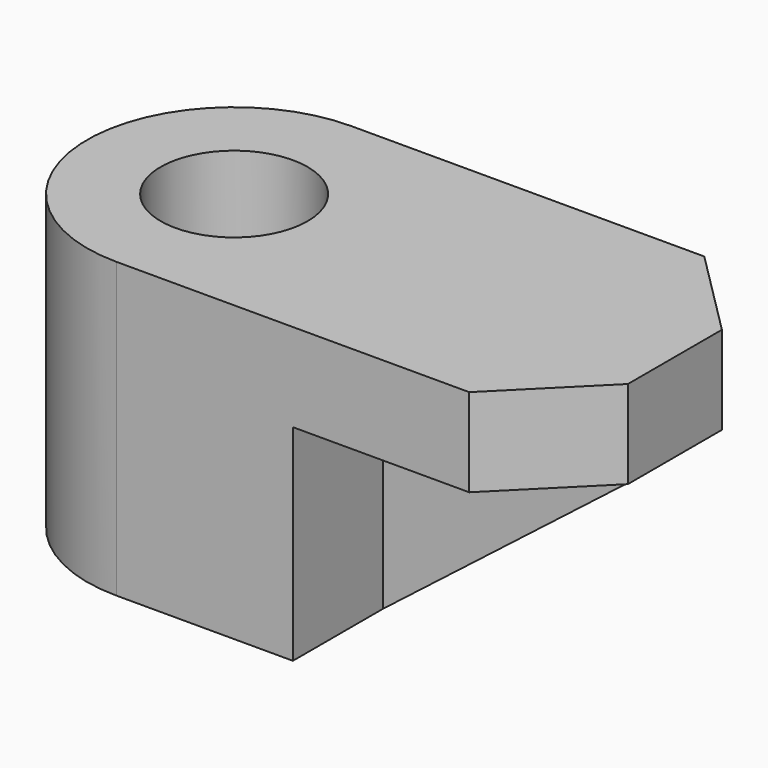
from build123d import *

# Parameters (mm, degrees)
F1_DEPTH = 30
F2_R     = 7.5
F3_DEPTH = 30
F5_DEPTH = 21
F6_W     = 27
F6_H     = 7
F7_DEPTH = 21
F9_DEPTH = 25


with BuildPart() as f1:
    # F0 (on Top) → F1 (new body)
    with BuildSketch(Plane.XY):
        with BuildLine():
            Line((21, 15), (-15, 15))
            ThreePointArc((-15, 15), (-30, 0), (-15, -15))
            Line((-15, -15), (21, -15))
            Line((21, -15), (30, -6))
            Line((30, -6), (30, 6))
            Line((30, 6), (21, 15))
        make_face()
    extrude(amount=F1_DEPTH)

    # F2 (on face) → F3 (cut)
    with BuildSketch(Plane.XY.offset(30)):
        with Locations((-15, 0)):
            Circle(F2_R)
    extrude(amount=-F3_DEPTH, mode=Mode.SUBTRACT)

    # F4 (on face) → F5 (cut)
    with BuildSketch(Plane(origin=(0, 0, 0), x_dir=(1, 0, 0), z_dir=(0, 0, -1))):
        Polygon((21, 15), (3, 15), (3, -15), (21, -15), (30, -6), (30, 6), align=None)
    extrude(amount=-F5_DEPTH, mode=Mode.SUBTRACT)

    # F6 (on face) → F7 (join)
    with BuildSketch(Plane(origin=(0, 0, 21), x_dir=(1, 0, 0), z_dir=(0, 0, -1))):
        with Locations((16.5, 0)):
            Rectangle(F6_W, F6_H)
    extrude(amount=F7_DEPTH)

    # F8 (on face) → F9 (cut)
    with BuildSketch(Plane(origin=(0, 3.5, 0), x_dir=(-1, 0, 0), z_dir=(0, 1, 0))):
        Polygon((-30, 0), (-3, 0), (-30, 21), align=None)
    extrude(amount=-F9_DEPTH, mode=Mode.SUBTRACT)


solid = f1.part
